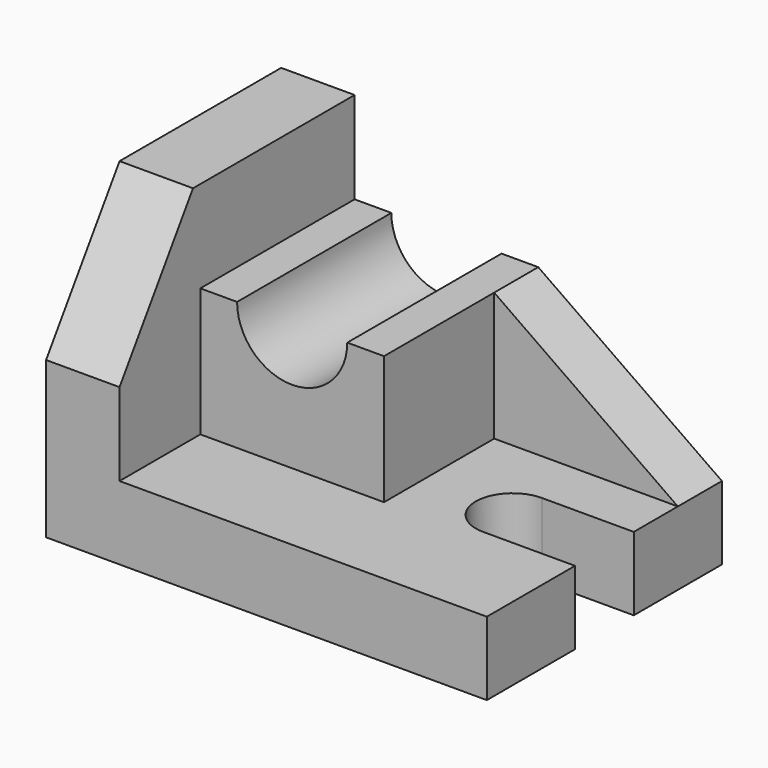
from build123d import *

# Parameters (mm, degrees)
F0_W     = 96
F0_H     = 64
F1_DEPTH = 16
F3_DEPTH = 16
F5_DEPTH = 42
F7_DEPTH = 12
F9_DEPTH = 25


with BuildPart() as f1:
    # F0 (on Top) → F1 (new body)
    with BuildSketch(Plane.XY):
        Rectangle(F0_W, F0_H)
    extrude(amount=F1_DEPTH)

    # F2 (on face) → F3 (join)
    with BuildSketch(Plane(origin=(-48, 0, 0), x_dir=(0, -1, 0), z_dir=(-1, 0, 0))):
        Polygon((-32, 64), (-32, 0), (32, 0), (32, 34), (12, 64), align=None)
    extrude(amount=-F3_DEPTH)

    # F8 (on face) → F9 (cut)
    with BuildSketch(Plane.XY.offset(16)):
        with BuildLine():
            Line((48, 8), (28, 8))
            ThreePointArc((28, 8), (20, 0), (28, -8))
            Line((28, -8), (48, -8))
            Line((48, -8), (48, 8))
        make_face()
    extrude(amount=-F9_DEPTH, mode=Mode.SUBTRACT)


with BuildPart() as f5:
    # F4 (on face) → F5 (new body)
    with BuildSketch(Plane(origin=(0, 32, 0), x_dir=(-1, 0, 0), z_dir=(0, 1, 0))):
        with BuildLine():
            Line((-8, 16), (32, 16))
            Line((32, 16), (32, 44))
            Line((32, 44), (24, 44))
            ThreePointArc((24, 44), (12, 32), (0, 44))
            Line((0, 44), (-8, 44))
            Line((-8, 44), (-8, 16))
        make_face()
    extrude(amount=-F5_DEPTH)


with BuildPart() as f7:
    # F6 (on face) → F7 (new body)
    with BuildSketch(Plane(origin=(0, 32, 0), x_dir=(-1, 0, 0), z_dir=(0, 1, 0))):
        Polygon((-48, 16), (-8, 16), (-8, 44), align=None)
    extrude(amount=-F7_DEPTH)


solid = Compound([f1.part, f5.part, f7.part])
